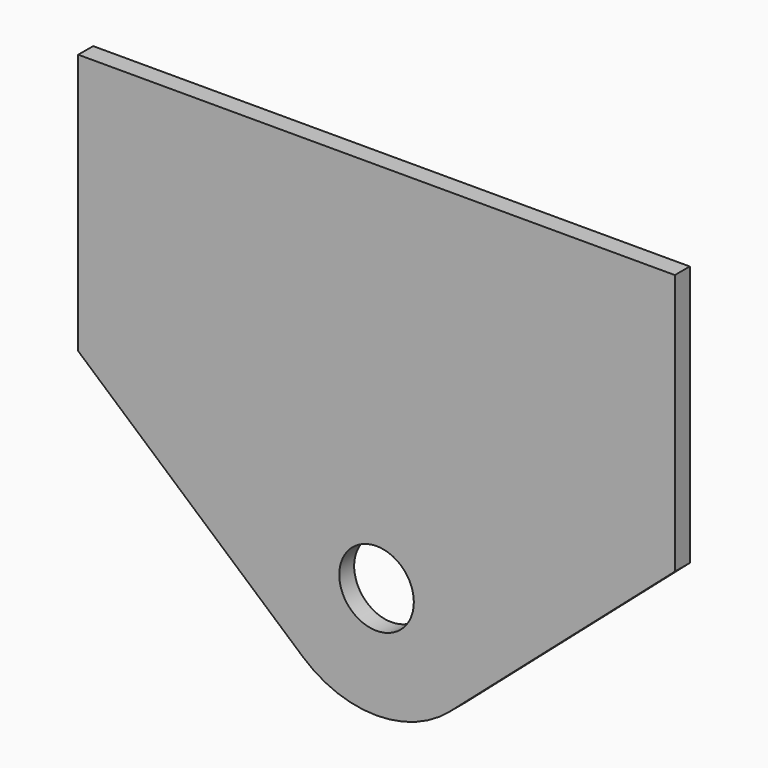
from build123d import *

# Parameters (mm, degrees)
F0_R     = 6.35
F1_DEPTH = 3.175


with BuildPart() as f1:
    # F0 (on Front) → F1 (new body)
    with BuildSketch(Plane.XZ):
        Polygon((101.6, -25.4), (0, -25.4), (0, -69.85), (50.8, -69.85), (101.6, -69.85), align=None)
        with BuildLine():
            Line((50.8, -69.85), (0, -69.85))
            Line((0, -69.85), (38.273973, -103.25274))
            ThreePointArc((38.273973, -103.25274), (32.962929, -82.211098), (50.8, -69.85))
        make_face()
        with BuildLine():
            Line((63.326027, -103.25274), (101.6, -69.85))
            Line((101.6, -69.85), (50.8, -69.85))
            ThreePointArc((50.8, -69.85), (64.270384, -75.429616), (69.85, -88.9))
            ThreePointArc((69.85, -88.9), (68.142481, -96.782946), (63.326027, -103.25274))
        make_face()
        with BuildLine():
            ThreePointArc((69.85, -88.9), (64.270384, -75.429616), (50.8, -69.85))
            ThreePointArc((50.8, -69.85), (32.962929, -82.211098), (38.273973, -103.25274))
            ThreePointArc((38.273973, -103.25274), (50.8, -107.95), (63.326027, -103.25274))
            ThreePointArc((63.326027, -103.25274), (68.142481, -96.782946), (69.85, -88.9))
        make_face()
        with Locations((50.8, -88.9)):
            Circle(F0_R, mode=Mode.SUBTRACT)
    extrude(amount=F1_DEPTH)


solid = f1.part
